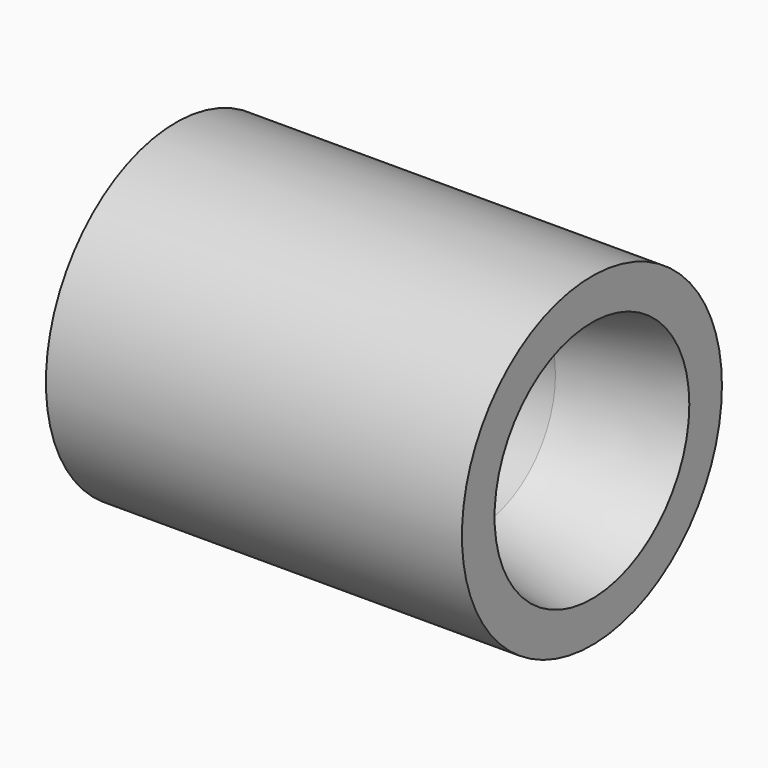
from build123d import *

# Parameters (mm, degrees)
F0_R     = 18.9865
F1_DEPTH = 48.6156
F2_R     = 13.97
F3_DEPTH = 23.9141
F4_R     = 10.16
F5_DEPTH = 24.7025
F6_R     = 11.176
F7_DEPTH = 17.78
F8_R     = 14.224
F9_DEPTH = 17.78
F9_TAPER = 13


with BuildPart() as f1:
    # F0 (on Right) → F1 (new body)
    with BuildSketch(Plane.YZ):
        Circle(F0_R)
    extrude(amount=F1_DEPTH)

    # F2 (on face) → F3 (cut)
    with BuildSketch(Plane(origin=(0, 0, 0), x_dir=(0, -1, 0), z_dir=(-1, 0, 0))):
        Circle(F2_R)
    extrude(amount=-F3_DEPTH, mode=Mode.SUBTRACT)

    # F4 (on face) → F5 (cut, through all)
    with BuildSketch(Plane(origin=(23.9141, 0, 0), x_dir=(0, -1, 0), z_dir=(-1, 0, 0))):
        Circle(F4_R)
    extrude(amount=-F5_DEPTH, mode=Mode.SUBTRACT)

    # F6 (on face) → F7 (cut)
    with BuildSketch(Plane.YZ.offset(48.6156)):
        Circle(F6_R)
    extrude(amount=-F7_DEPTH, mode=Mode.SUBTRACT)

    # F8 (on face) → F9 (cut)
    with BuildSketch(Plane.YZ.offset(48.6156)):
        Circle(F8_R)
    extrude(amount=-F9_DEPTH, taper=F9_TAPER, mode=Mode.SUBTRACT)


solid = f1.part
